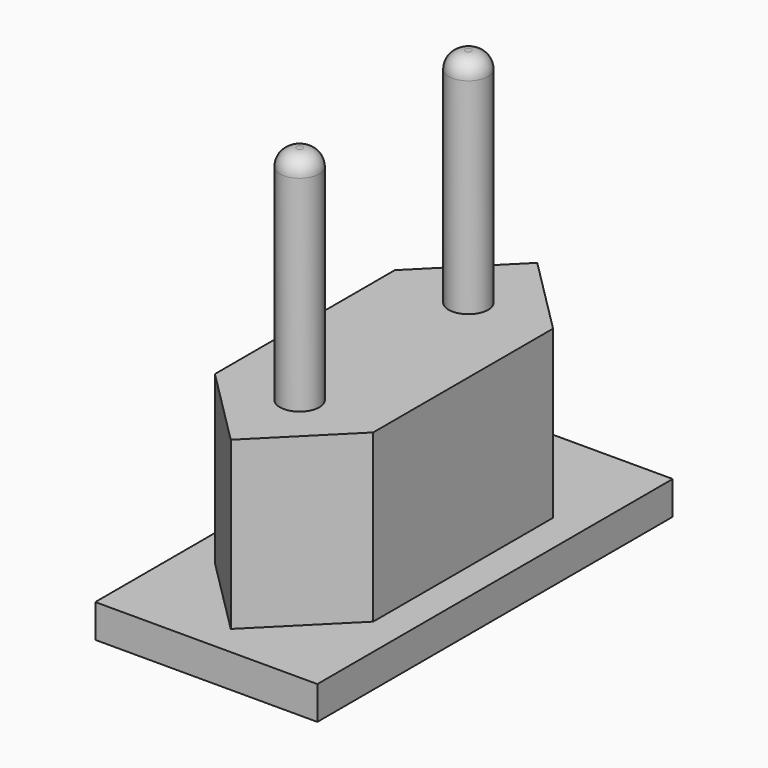
from build123d import *

# Parameters (mm, degrees)
F0_W     = 14.25
F0_H     = 20.25
F1_DEPTH = 18
F2_W     = 20
F2_H     = 40
F3_DEPTH = 3
F4_R     = 1.775
F5_DEPTH = 20
F6_R     = 1.5


with BuildPart() as f1:
    # F0 (on Top) → F1 (new body)
    with BuildSketch(Plane.XY):
        Polygon((7.125, -10.125), (-7.125, -10.125), (0, -17.25), align=None)
        Polygon((0, 17.25), (-7.125, 10.125), (7.125, 10.125), align=None)
        Rectangle(F0_W, F0_H)
        Polygon((7.125, -10.125), (-7.125, -10.125), (0, -17.25), align=None)
    extrude(amount=F1_DEPTH)

    # F2 (on Top) → F3 (join)
    with BuildSketch(Plane.XY):
        Rectangle(F2_W, F2_H)
    extrude(amount=F3_DEPTH)

    # F4 (on face) → F5 (join)
    with BuildSketch(Plane.XY.offset(18)):
        with Locations((0, 9.5)):
            Circle(F4_R)
        with Locations((0, -9.5)):
            Circle(F4_R)
    extrude(amount=F5_DEPTH)

    # F6
    f6_edges = [f1.edges().sort_by_distance(p)[0] for p in [
        (-1.775, -9.5, 38),
        (-1.775, 9.5, 38),
    ]]
    fillet(f6_edges, radius=F6_R)


solid = f1.part
